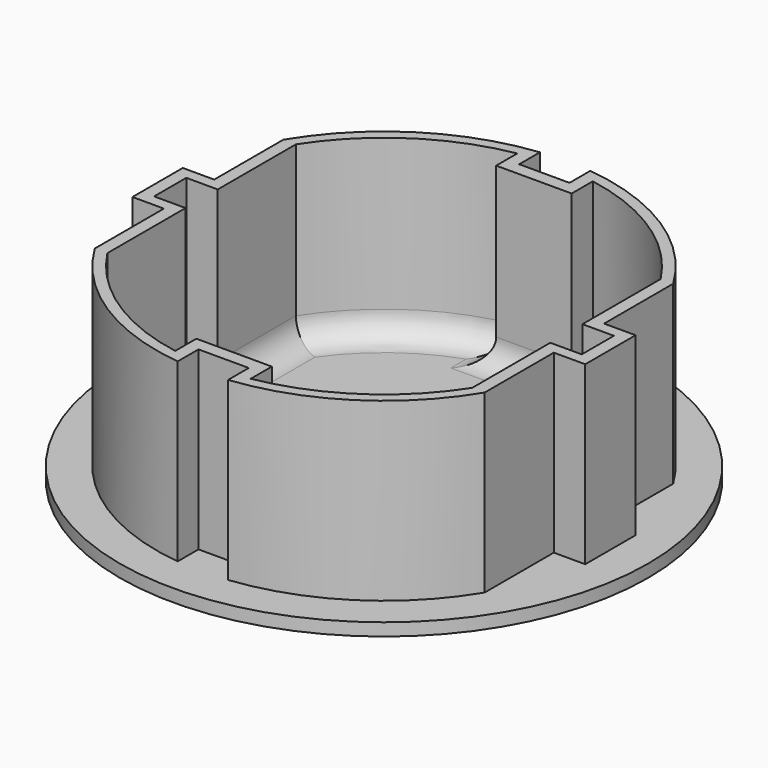
from build123d import *

# Parameters (mm, degrees)
F0_R     = 21
F1_DEPTH = 1
F2_DEPTH = 15
F4_DEPTH = 14
F5_R     = 2


with BuildPart() as f1:
    # F0 (on Top) → F1 (new body)
    with BuildSketch(Plane.XY):
        Circle(F0_R)
        with BuildLine():
            Line((-15.5, -2.5), (-18, -2.5))
            Line((-18, -2.5), (-18, 0))
            Line((-18, 0), (-18, 2.5))
            Line((-18, 2.5), (-15.5, 2.5))
            Line((-15.5, 2.5), (-15.5, 9.367497))
            ThreePointArc((-15.5, 9.367497), (-9.756666, 15.25803), (-2, 18))
            Line((-2, 18), (-2, 15.938399))
            Line((-2, 15.938399), (0, 15.938399))
            Line((0, 15.938399), (2, 15.938399))
            Line((2, 15.938399), (2, 18))
            ThreePointArc((2, 18), (9.756666, 15.25803), (15.5, 9.367497))
            Line((15.5, 9.367497), (15.5, 2.5))
            Line((15.5, 2.5), (18, 2.5))
            Line((18, 2.5), (18, 0))
            Line((18, 0), (18, -2.5))
            Line((18, -2.5), (15.5, -2.5))
            Line((15.5, -2.5), (15.5, -9.367497))
            ThreePointArc((15.5, -9.367497), (9.756666, -15.25803), (2, -18))
            Line((2, -18), (2, -15.938399))
            Line((2, -15.938399), (0, -15.938399))
            Line((0, -15.938399), (-2, -15.938399))
            Line((-2, -15.938399), (-2, -18))
            ThreePointArc((-2, -18), (-9.756666, -15.25803), (-15.5, -9.367497))
            Line((-15.5, -9.367497), (-15.5, -2.5))
        make_face(mode=Mode.SUBTRACT)
        with BuildLine():
            Line((-18, 0), (-18, -2.5))
            Line((-18, -2.5), (-15.5, -2.5))
            Line((-15.5, -2.5), (-15.5, -9.367497))
            ThreePointArc((-15.5, -9.367497), (-9.756666, -15.25803), (-2, -18))
            Line((-2, -18), (-2, -15.938399))
            Line((-2, -15.938399), (0, -15.938399))
            Line((0, -15.938399), (2, -15.938399))
            Line((2, -15.938399), (2, -18))
            ThreePointArc((2, -18), (9.756666, -15.25803), (15.5, -9.367497))
            Line((15.5, -9.367497), (15.5, -2.5))
            Line((15.5, -2.5), (18, -2.5))
            Line((18, -2.5), (18, 0))
            Line((18, 0), (18, 2.5))
            Line((18, 2.5), (15.5, 2.5))
            Line((15.5, 2.5), (15.5, 9.367497))
            ThreePointArc((15.5, 9.367497), (9.756666, 15.25803), (2, 18))
            Line((2, 18), (2, 15.938399))
            Line((2, 15.938399), (0, 15.938399))
            Line((0, 15.938399), (-2, 15.938399))
            Line((-2, 15.938399), (-2, 18))
            ThreePointArc((-2, 18), (-9.756666, 15.25803), (-15.5, 9.367497))
            Line((-15.5, 9.367497), (-15.5, 2.5))
            Line((-15.5, 2.5), (-18, 2.5))
            Line((-18, 2.5), (-18, 0))
        make_face()
    extrude(amount=F1_DEPTH)

    # F0 (on Top) → F2 (join)
    with BuildSketch(Plane.XY):
        with BuildLine():
            Line((-18, 0), (-18, -2.5))
            Line((-18, -2.5), (-15.5, -2.5))
            Line((-15.5, -2.5), (-15.5, -9.367497))
            ThreePointArc((-15.5, -9.367497), (-9.756666, -15.25803), (-2, -18))
            Line((-2, -18), (-2, -15.938399))
            Line((-2, -15.938399), (0, -15.938399))
            Line((0, -15.938399), (2, -15.938399))
            Line((2, -15.938399), (2, -18))
            ThreePointArc((2, -18), (9.756666, -15.25803), (15.5, -9.367497))
            Line((15.5, -9.367497), (15.5, -2.5))
            Line((15.5, -2.5), (18, -2.5))
            Line((18, -2.5), (18, 0))
            Line((18, 0), (18, 2.5))
            Line((18, 2.5), (15.5, 2.5))
            Line((15.5, 2.5), (15.5, 9.367497))
            ThreePointArc((15.5, 9.367497), (9.756666, 15.25803), (2, 18))
            Line((2, 18), (2, 15.938399))
            Line((2, 15.938399), (0, 15.938399))
            Line((0, 15.938399), (-2, 15.938399))
            Line((-2, 15.938399), (-2, 18))
            ThreePointArc((-2, 18), (-9.756666, 15.25803), (-15.5, 9.367497))
            Line((-15.5, 9.367497), (-15.5, 2.5))
            Line((-15.5, 2.5), (-18, 2.5))
            Line((-18, 2.5), (-18, 0))
        make_face()
    extrude(amount=F2_DEPTH)

    # F3 (on face) → F4 (cut)
    with BuildSketch(Plane.XY.offset(15)):
        with BuildLine():
            Line((-17, 0), (-17, -1.6))
            Line((-17, -1.6), (-14.5, -1.6))
            Line((-14.5, -1.6), (-14.5, -9.367497))
            ThreePointArc((-14.5, -9.367497), (-9.546008, -14.383106), (-3, -17))
            Line((-3, -17), (-3, -14.9))
            Line((-3, -14.9), (0, -14.9))
            Line((0, -14.9), (3, -14.9))
            Line((3, -14.9), (3, -17))
            ThreePointArc((3, -17), (9.546008, -14.383106), (14.5, -9.367497))
            Line((14.5, -9.367497), (14.5, -1.6))
            Line((14.5, -1.6), (17, -1.6))
            Line((17, -1.6), (17, 0))
            Line((17, 0), (17, 1.6))
            Line((17, 1.6), (14.5, 1.6))
            Line((14.5, 1.6), (14.5, 9.367497))
            ThreePointArc((14.5, 9.367497), (9.546008, 14.383106), (3, 17))
            Line((3, 17), (3, 14.9))
            Line((3, 14.9), (0, 14.9))
            Line((0, 14.9), (-3, 14.9))
            Line((-3, 14.9), (-3, 17))
            ThreePointArc((-3, 17), (-9.546008, 14.383106), (-14.5, 9.367497))
            Line((-14.5, 9.367497), (-14.5, 1.6))
            Line((-14.5, 1.6), (-17, 1.6))
            Line((-17, 1.6), (-17, 0))
        make_face()
    extrude(amount=-F4_DEPTH, mode=Mode.SUBTRACT)

    # F5
    f5_edges = [f1.edges().sort_by_distance(p)[0] for p in [
        (-14.5, -5.483748, 1),
        (-17, 0, 1),
        (-14.5, 5.483748, 1),
        (-9.546008, 14.383106, 1),
        (-9.546008, -14.383106, 1),
        (9.546008, -14.383106, 1),
        (0, -14.9, 1),
        (14.5, -5.483748, 1),
        (14.5, 5.483748, 1),
        (17, 0, 1),
        (9.546008, 14.383106, 1),
        (0, 14.9, 1),
        (3, -15.95, 1),
        (-3, -15.95, 1),
        (3, 15.95, 1),
        (-3, 15.95, 1),
    ]]
    fillet(f5_edges, radius=F5_R)


solid = f1.part
